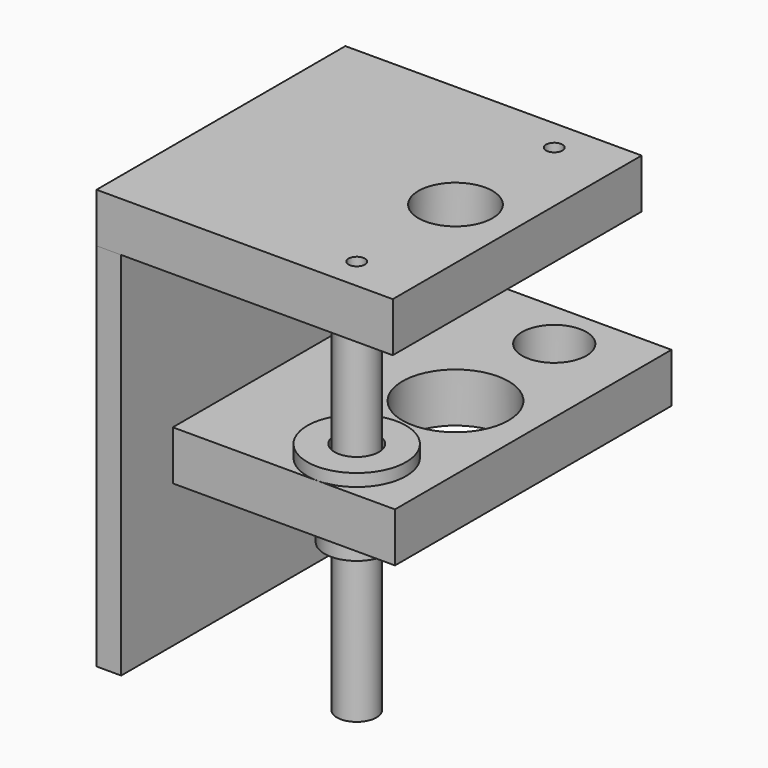
from build123d import *

# Parameters (mm, degrees)
F0_W      = 120
F0_H      = 126
F0_R      = 8
F0_R_2    = 15
F1_DEPTH  = 20
F2_DEPTH  = 10
F3_D      = 6.6
F4_R      = 8
F5_DEPTH  = 150
F7_D      = 5
F7_DEPTH  = 15
F7_TIP    = 1.5021515476
F8_W      = 10
F8_H      = 126
F9_DEPTH  = 150
F11_W     = 90
F11_H     = 140
F11_R     = 13.0148133909
F11_R_2   = 21.5
F11_R_3   = 11.5
F12_DEPTH = 20


with BuildPart() as f1:
    # F0 (on Top) → F1 (new body)
    with BuildSketch(Plane.XY):
        with Locations((-35, 0)):
            Rectangle(F0_W, F0_H)
        with Locations((0, -50)):
            Circle(F0_R, mode=Mode.SUBTRACT)
        Circle(F0_R_2, mode=Mode.SUBTRACT)
        with Locations((0, 50)):
            Circle(F0_R, mode=Mode.SUBTRACT)
        with Locations((0, -50)):
            Circle(F0_R)
        with Locations((0, 50)):
            Circle(F0_R)
    extrude(amount=F1_DEPTH)

    # F0 (on Top) → F2 (cut)
    with BuildSketch(Plane.XY):
        with Locations((0, -50)):
            Circle(F0_R)
        with Locations((0, 50)):
            Circle(F0_R)
    extrude(amount=F2_DEPTH, mode=Mode.SUBTRACT)

    # F3 (through all)
    with Locations(Plane(origin=(0, 0, 0), x_dir=(1, 0, 0), z_dir=(0, 0, -1))):
        with Locations((0, 50), (0, -50)):
            Hole(F3_D / 2)


with BuildPart() as f5:
    # F4 (on face) → F5 (new body)
    with BuildSketch(Plane(origin=(0, 0, 10), x_dir=(1, 0, 0), z_dir=(0, 0, -1))):
        with Locations((0, 50)):
            Circle(F4_R)
    extrude(amount=F5_DEPTH)

    # F7
    with Locations(Plane.XY.offset(10)):
        with Locations((0, -50)):
            Hole(F7_D / 2, depth=F7_DEPTH)
            with Locations((0, 0, -(F7_DEPTH + F7_TIP / 2))):  # 118° drill point
                Cone(0, F7_D / 2, F7_TIP, mode=Mode.SUBTRACT)


with BuildPart() as f9:
    # F8 (on face) → F9 (new body)
    with BuildSketch(Plane(origin=(0, 0, 0), x_dir=(1, 0, 0), z_dir=(0, 0, -1))):
        with Locations((-90, 0)):
            Rectangle(F8_W, F8_H)
    extrude(amount=F9_DEPTH)


with BuildPart() as f12:
    # F11 (on offset) → F12 (new body)
    with BuildSketch(Plane(origin=(0, 0, -50), x_dir=(1, 0, 0), z_dir=(0, 0, -1))):
        with Locations((-13.5, 0)):
            Rectangle(F11_W, F11_H)
        with Locations((0, -50)):
            Circle(F11_R, mode=Mode.SUBTRACT)
        Circle(F11_R_2, mode=Mode.SUBTRACT)
        with Locations((0, 50)):
            Circle(F11_R_3, mode=Mode.SUBTRACT)
    extrude(amount=F12_DEPTH)


with BuildPart() as f14:
    # F13 (on Right) → F14 (revolve)
    with BuildSketch(Plane.YZ):
        Polygon((-63, -50), (-63, -80), (-59, -80), (-59, -64.25), (-60, -64.25), (-60, -60.75), (-59, -60.75), (-59, -45), (-70, -45), (-70, -50), align=None)
    revolve(axis=Axis((0, -50, -85.4690910131), (0, 0, 1)))


solid = Compound([f1.part, f5.part, f9.part, f12.part, f14.part])
